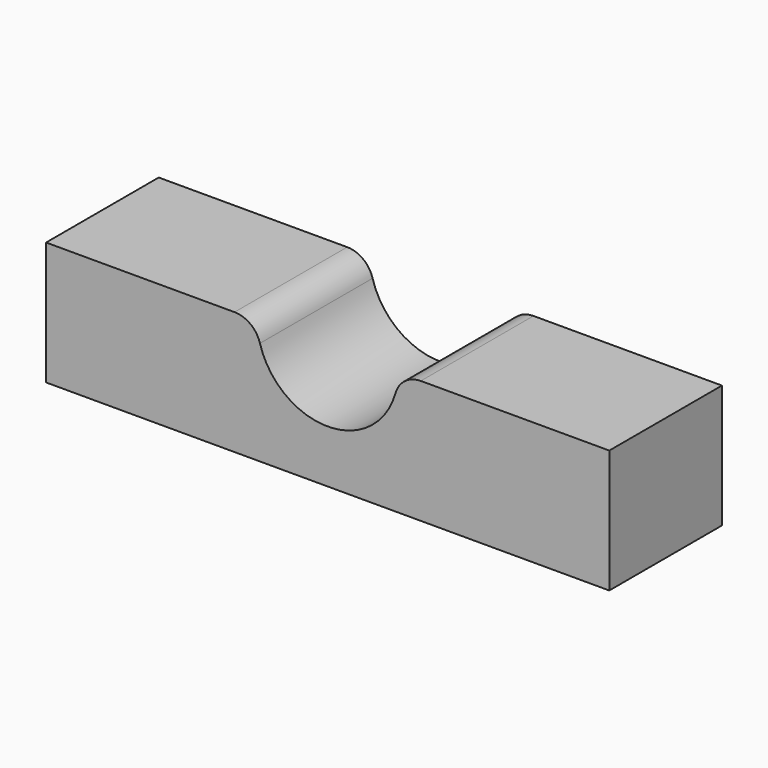
from build123d import *

# Parameters (mm, degrees)
F1_DEPTH = 50.8


with BuildPart() as f1:
    # F0 (on Front) → F1 (new body)
    with BuildSketch(Plane.XZ):
        with BuildLine():
            Line((101.6, -22.225), (101.6, 22.225))
            Line((101.6, 22.225), (33.601042, 22.225))
            ThreePointArc((33.601042, 22.225), (27.857251, 20.298321), (24.437121, 15.297727))
            ThreePointArc((24.437121, 15.297727), (0, -3.175), (-24.437121, 15.297727))
            ThreePointArc((-24.437121, 15.297727), (-27.857251, 20.298321), (-33.601042, 22.225))
            Line((-33.601042, 22.225), (-101.6, 22.225))
            Line((-101.6, 22.225), (-101.6, -22.225))
            Line((-101.6, -22.225), (101.6, -22.225))
        make_face()
    extrude(amount=F1_DEPTH)


solid = f1.part
